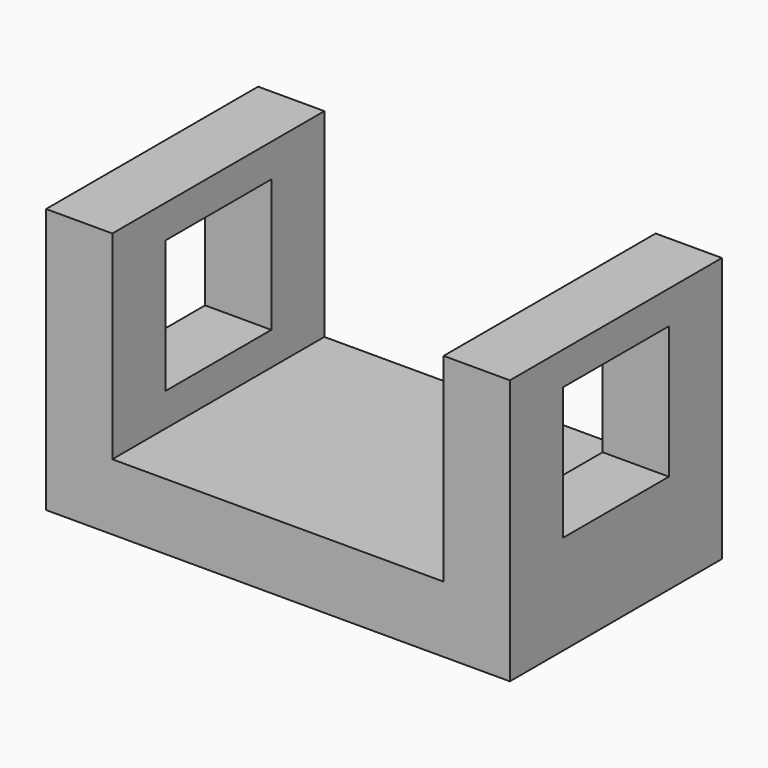
from build123d import *

# Parameters (mm, degrees)
F0_W     = 50.8
F0_H     = 50.8
F0_W_2   = 25.4
F0_H_2   = 25.4
F1_DEPTH = 88.9
F2_W     = 63.5
F2_H     = 38.1
F3_DEPTH = 50.801


with BuildPart() as f1:
    # F0 (on Right) → F1 (new body)
    with BuildSketch(Plane.YZ):
        Rectangle(F0_W, F0_H)
        with Locations((0, 6.35)):
            Rectangle(F0_W_2, F0_H_2, mode=Mode.SUBTRACT)
    extrude(amount=-F1_DEPTH)

    # F2 (on face) → F3 (cut, through all)
    with BuildSketch(Plane.XZ.offset(25.4)):
        with Locations((-44.45, 6.35)):
            Rectangle(F2_W, F2_H)
    extrude(amount=-F3_DEPTH, mode=Mode.SUBTRACT)


solid = f1.part
